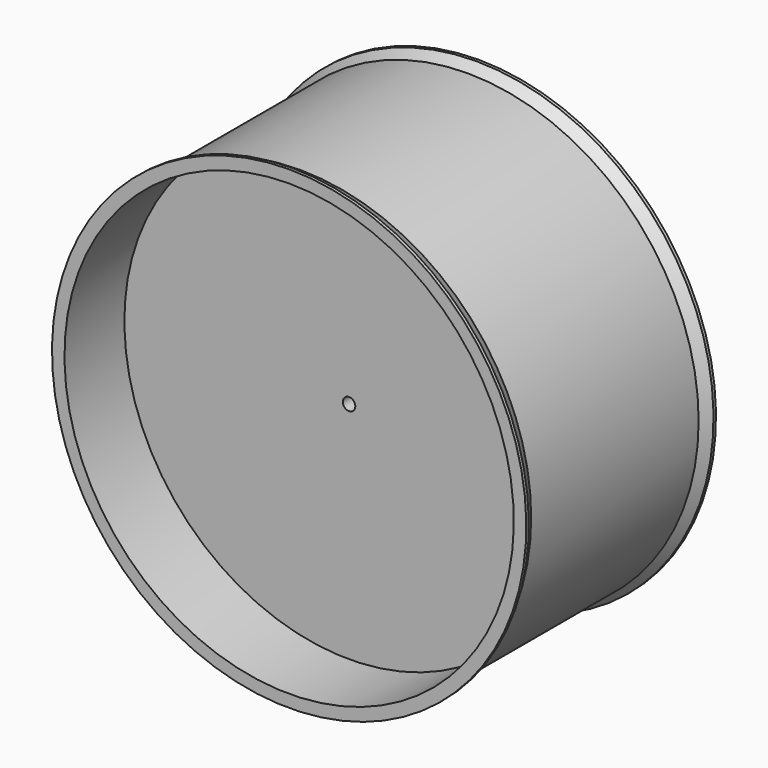
from build123d import *

# Parameters (mm, degrees)
F2_R = 5.08


with BuildPart() as f1:
    # F0 (on Right) → F1 (revolve)
    with BuildSketch(Plane.YZ):
        Polygon((0, 88.7197644345), (0, -133.5302355655), (12.7, -133.5302355655), (12.7, 88.7197644345), (165.1, 88.7197644345), (165.1, 101.4197644345), (161.925, 101.4197644345), (150.9264773719, 95.0697644345), (0, 95.0697644345), (-62.0264773719, 95.0697644345), (-73.025, 101.4197644345), (-76.2, 101.4197644345), (-76.2, 88.7197644345), align=None)
    revolve(axis=Axis((0, 29.8570962623, -139.8802355655), (0, 1, 0)))

    # F2
    f2_edges = [f1.edges().sort_by_distance(p)[0] for p in [
        (0, 165.1, -368.480236),
    ]]
    fillet(f2_edges, radius=F2_R)


solid = f1.part
